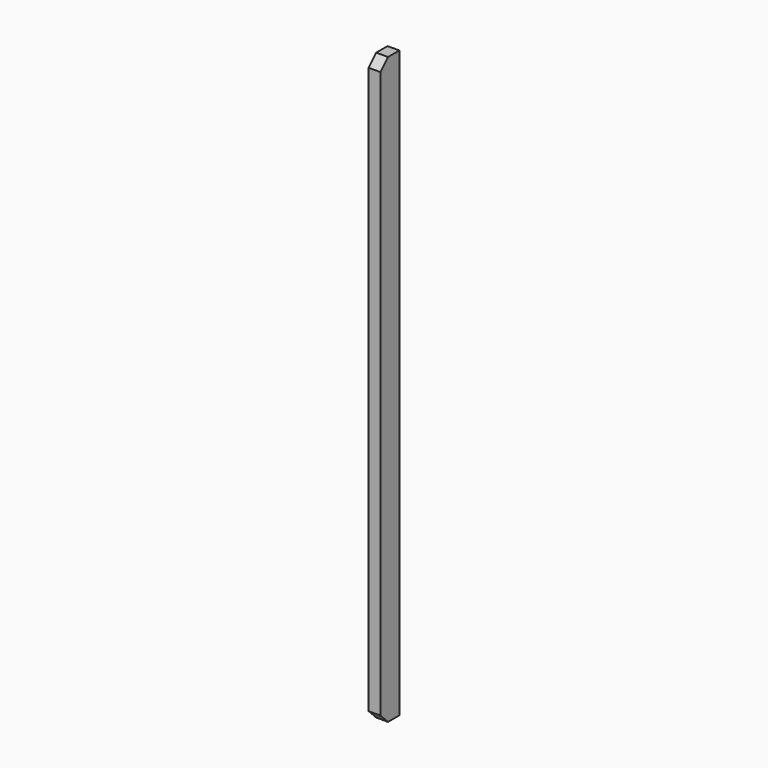
from build123d import *

# Parameters (mm, degrees)
F0_W     = 100
F0_H     = 200
F1_DEPTH = 4950
F2_SIZE  = 80
F3_SIZE  = 80


with BuildPart() as f1:
    # F0 (on Top) → F1 (new body)
    with BuildSketch(Plane.XY):
        with Locations((-10.933057, -8.272938)):
            Rectangle(F0_W, F0_H)
    extrude(amount=F1_DEPTH)

    # F2
    f2_edges = [f1.edges().sort_by_distance(p)[0] for p in [
        (-10.933057, -108.272938, 4950),
    ]]
    chamfer(f2_edges, length=F2_SIZE)

    # F3
    f3_edges = [f1.edges().sort_by_distance(p)[0] for p in [
        (-10.933057, -108.272938, 0),
    ]]
    chamfer(f3_edges, length=F3_SIZE)


solid = f1.part
